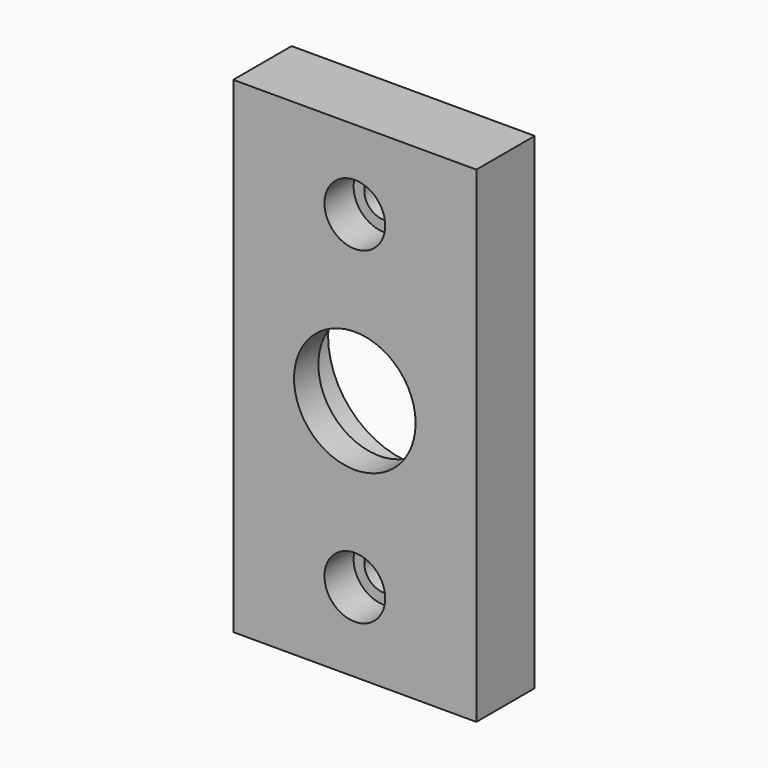
from build123d import *

# Parameters (mm, degrees)
F0_W     = 40
F0_H     = 80
F0_R     = 3.25
F0_R_2   = 10
F1_DEPTH = 12
F2_R     = 5
F3_DEPTH = 6
F4_R     = 14
F5_DEPTH = 7


with BuildPart() as f1:
    # F0 (on Front) → F1 (new body)
    with BuildSketch(Plane.XZ):
        with Locations((20, 40)):
            Rectangle(F0_W, F0_H)
        with Locations((20, 13)):
            Circle(F0_R, mode=Mode.SUBTRACT)
        with Locations((20, 40)):
            Circle(F0_R_2, mode=Mode.SUBTRACT)
        with Locations((20, 67)):
            Circle(F0_R, mode=Mode.SUBTRACT)
    extrude(amount=F1_DEPTH)

    # F2 (on face) → F3 (cut)
    with BuildSketch(Plane.XZ.offset(12)):
        with Locations((20, 67)):
            Circle(F2_R)
        with Locations((20, 13)):
            Circle(F2_R)
    extrude(amount=-F3_DEPTH, mode=Mode.SUBTRACT)

    # F4 (on face) → F5 (cut)
    with BuildSketch(Plane(origin=(0, 0, 0), x_dir=(-1, 0, 0), z_dir=(0, 1, 0))):
        with Locations((-20, 40)):
            Circle(F4_R)
    extrude(amount=-F5_DEPTH, mode=Mode.SUBTRACT)


solid = f1.part
